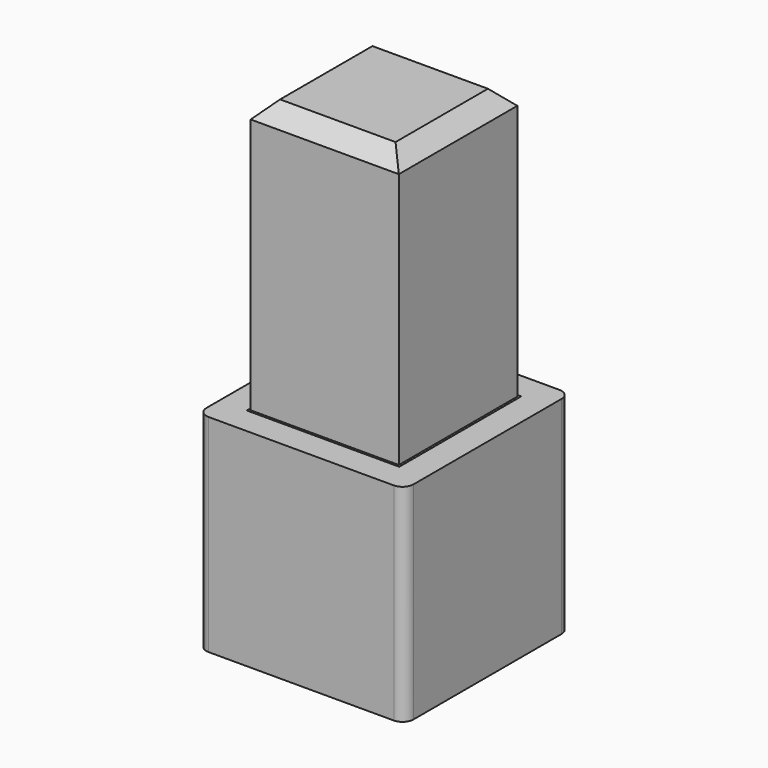
from build123d import *

# Parameters (mm, degrees)
F0_W     = 19
F0_H     = 19
F1_DEPTH = 19
F2_T     = -2.5
F3_W     = 13.6
F3_H     = 13.6
F4_DEPTH = 25
F5_SIZE  = 1.5
F6_DEPTH = 25
F7_R     = 1


with BuildPart() as f1:
    # F0 (on Top) → F1 (new body)
    with BuildSketch(Plane.XY):
        Rectangle(F0_W, F0_H)
    extrude(amount=F1_DEPTH)

    # F2
    f2_openings = [f1.faces().sort_by_distance(p)[0] for p in [
        (0, 0, 19),
    ]]
    offset(amount=F2_T, openings=f2_openings)

    # F6 (cut): a face of the model
    f6_faces = [f1.faces().sort_by_distance(p)[0] for p in [
        (0, 0, 2.5),
    ]]
    extrude(f6_faces, amount=-F6_DEPTH, mode=Mode.SUBTRACT)

    # F7
    f7_edges = [f1.edges().sort_by_distance(p)[0] for p in [
        (-9.5, 9.5, 9.5),
        (-9.5, -9.5, 9.5),
        (9.5, -9.5, 9.5),
        (9.5, 9.5, 9.5),
    ]]
    fillet(f7_edges, radius=F7_R)


with BuildPart() as f4:
    # F3 (on face) → F4 (new body)
    with BuildSketch(Plane.XY.offset(19)):
        Rectangle(F3_W, F3_H)
    extrude(amount=F4_DEPTH)

    # F5
    f5_edges = [f4.edges().sort_by_distance(p)[0] for p in [
        (0, 6.8, 44),
        (-6.8, 0, 44),
        (6.8, 0, 44),
        (0, -6.8, 44),
    ]]
    chamfer(f5_edges, length=F5_SIZE)


solid = Compound([f1.part, f4.part])
